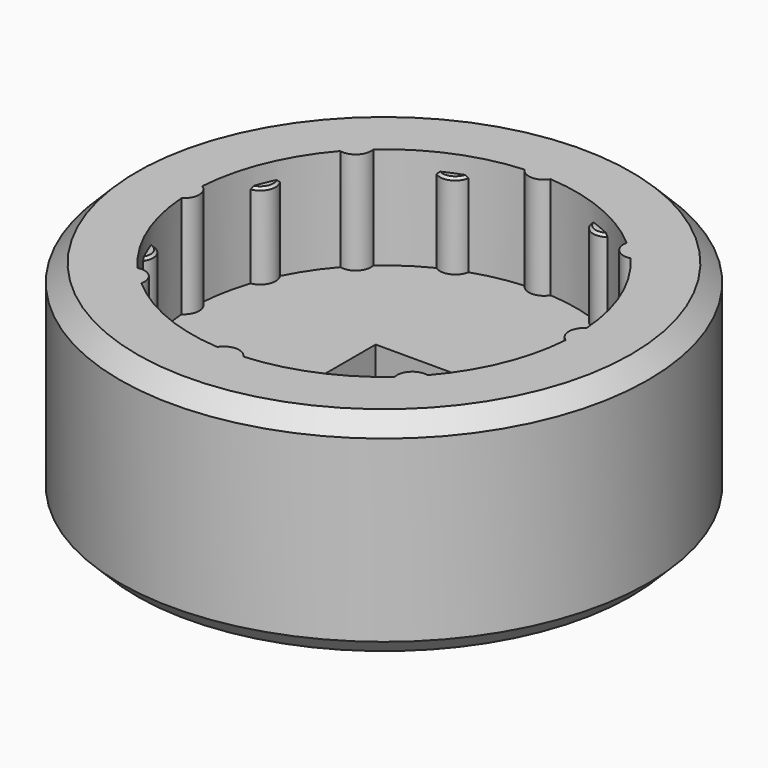
from build123d import *

# Parameters (mm, degrees)
SKETCH_R              = 31
PAD_DEPTH             = 25
SKETCH001_R           = 22.6
POCKET_DEPTH          = 12
SKETCH003_W           = 9.8
SKETCH003_H           = 9.8
POCKET001_DEPTH       = 25.001
SKETCH004_R           = 1.8
PAD001_DEPTH          = 12
POLARPATTERN_COUNT    = 8
SKETCH005_R           = 1.8
PAD002_DEPTH          = 10
POLARPATTERN001_COUNT = 16
CHAMFER_SIZE          = 2
CHAMFER001_SIZE       = 2
CHAMFER002_SIZE       = 0.5
CHAMFER003_SIZE       = 0.29


with BuildPart() as part:
    # Sketch → Pad (new body)
    with BuildSketch(Plane.XY):
        Circle(SKETCH_R)
    extrude(amount=PAD_DEPTH)

    # Sketch001 → Pocket (cut)
    with BuildSketch(Plane.XY.offset(25)):
        Circle(SKETCH001_R)
    extrude(amount=-POCKET_DEPTH, mode=Mode.SUBTRACT)

    # Sketch003 → Pocket001 (cut, through all)
    with BuildSketch(Plane(origin=(0, 0, 0), x_dir=(1, 0, 0), z_dir=(0, 0, -1))):
        Rectangle(SKETCH003_W, SKETCH003_H)
    extrude(amount=-POCKET001_DEPTH, mode=Mode.SUBTRACT)

    # Sketch004 → Pad001 (new body)
    with BuildSketch(Plane.XY.offset(13)):
        with Locations((0, 23.5)):
            Circle(SKETCH004_R)
    pad001 = extrude(amount=PAD001_DEPTH)

    # PolarPattern: Pad001 ×8 about axis
    polarpattern_axis = Axis((0, 0, 13), (0, 0, 1))
    for i in range(1, POLARPATTERN_COUNT):
        add(pad001.rotate(polarpattern_axis, i * 360 / POLARPATTERN_COUNT))

    # Sketch005 → Pad002 (new body)
    with BuildSketch(Plane.XY.offset(13)):
        with Locations((0, 23.5)):
            Circle(SKETCH005_R)
    pad002 = extrude(amount=PAD002_DEPTH)

    # PolarPattern001: Pad002 ×16 about axis
    polarpattern001_axis = Axis((0, 0, 13), (0, 0, 1))
    for i in range(1, POLARPATTERN001_COUNT):
        add(pad002.rotate(polarpattern001_axis, i * 360 / POLARPATTERN001_COUNT))

    # Chamfer
    chamfer_edges = [part.edges().sort_by_distance(p)[0] for p in [
        (-31, 0, 25),
    ]]
    chamfer(chamfer_edges, length=CHAMFER_SIZE)

    # Chamfer001
    chamfer001_edges = [part.edges().sort_by_distance(p)[0] for p in [
        (-31, 0, 0),
    ]]
    chamfer(chamfer001_edges, length=CHAMFER001_SIZE)

    # Chamfer002
    chamfer002_edges = [part.edges().sort_by_distance(p)[0] for p in [
        (-4.9, 0, 0),
        (0, 4.9, 0),
        (4.9, 0, 0),
        (0, -4.9, 0),
    ]]
    chamfer(chamfer002_edges, length=CHAMFER002_SIZE)

    # Chamfer003
    chamfer003_edges = [part.edges().sort_by_distance(p)[0] for p in [
        (8.30423, 20.048186, 23),
        (20.048186, 8.30423, 23),
        (20.048186, -8.30423, 23),
        (8.30423, -20.048186, 23),
        (-8.30423, -20.048186, 23),
        (-20.048186, -8.30423, 23),
        (-20.048186, 8.30423, 23),
        (-8.30423, 20.048186, 23),
    ]]
    chamfer(chamfer003_edges, length=CHAMFER003_SIZE)


solid = part.part
